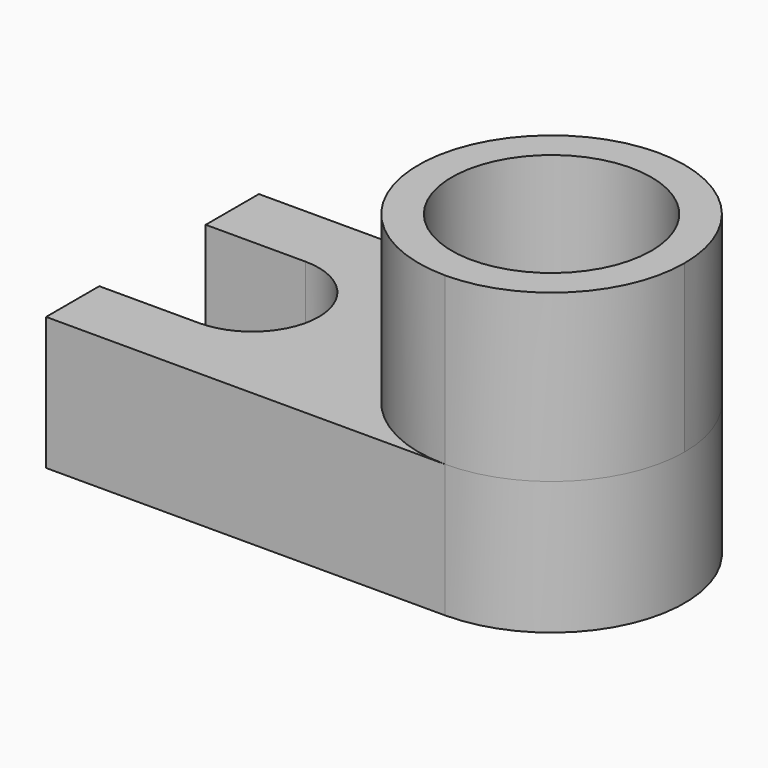
from build123d import *

# Parameters (mm, degrees)
F1_DEPTH = 508
F3_DEPTH = 635
F4_R     = 381
F5_DEPTH = 1143


with BuildPart() as f1:
    # F0 (on Top) → F1 (new body)
    with BuildSketch(Plane.XY):
        with BuildLine():
            Line((-762, -508), (762, -508))
            ThreePointArc((762, -508), (1270, 0), (762, 508))
            Line((762, 508), (-762, 508))
            Line((-762, 508), (-762, 254))
            Line((-762, 254), (-381, 254))
            ThreePointArc((-381, 254), (-127, 0), (-381, -254))
            Line((-381, -254), (-762, -254))
            Line((-762, -254), (-762, -508))
        make_face()
    extrude(amount=F1_DEPTH)

    # F2 (on face) → F3 (join)
    with BuildSketch(Plane.XY.offset(508)):
        with BuildLine():
            ThreePointArc((762, -508), (1121.210245, -359.210245), (1270, 0))
            ThreePointArc((1270, 0), (1121.210245, 359.210245), (762, 508))
            ThreePointArc((762, 508), (254, 0), (762, -508))
        make_face()
    extrude(amount=F3_DEPTH)

    # F4 (on face) → F5 (cut)
    with BuildSketch(Plane.XY.offset(1143)):
        with Locations((762, 0)):
            Circle(F4_R)
    extrude(amount=-F5_DEPTH, mode=Mode.SUBTRACT)


solid = f1.part
